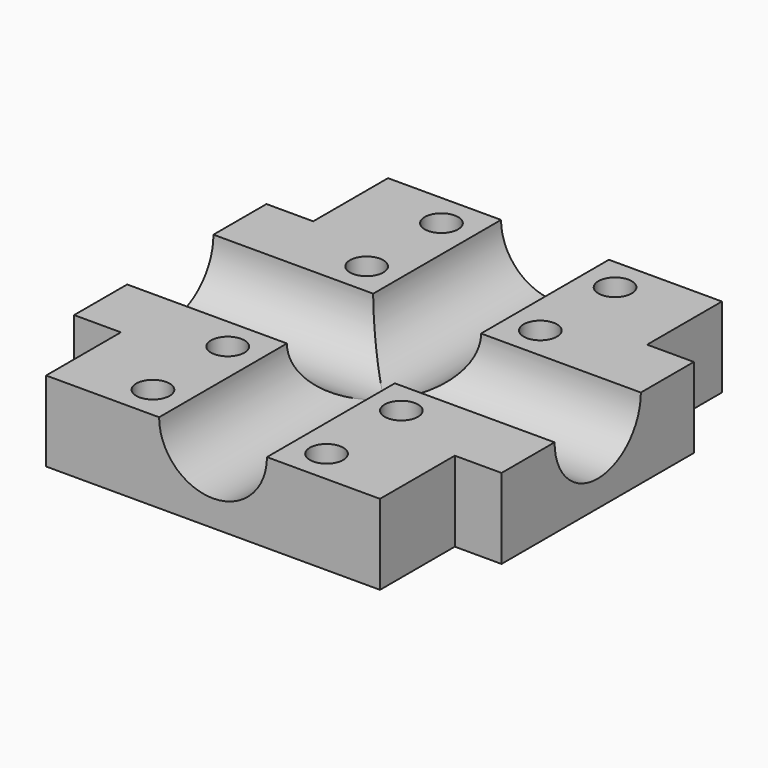
from build123d import *

# Parameters (mm, degrees)
F0_R     = 2.5
F1_DEPTH = 12
F0_W     = 7
F0_H     = 14
F2_DEPTH = 12.001
F3_R     = 8.075
F4_DEPTH = 64.001
F6_DEPTH = 64.001


with BuildPart() as f1:
    # F0 (on Top) → F1 (new body)
    with BuildSketch(Plane.XY):
        Polygon((-25, -32), (25, -32), (25, -18), (32, -18), (32, 18), (25, 18), (25, 32), (-25, 32), (-25, 18), (-32, 18), (-32, -18), (-25, -18), align=None)
        with Locations((-13, -27)):
            Circle(F0_R, mode=Mode.SUBTRACT)
        with Locations((-13, -13)):
            Circle(F0_R, mode=Mode.SUBTRACT)
        with Locations((13, -27)):
            Circle(F0_R, mode=Mode.SUBTRACT)
        with Locations((13, -13)):
            Circle(F0_R, mode=Mode.SUBTRACT)
        with Locations((-13, 13)):
            Circle(F0_R, mode=Mode.SUBTRACT)
        with Locations((-13, 27)):
            Circle(F0_R, mode=Mode.SUBTRACT)
        with Locations((13, 13)):
            Circle(F0_R, mode=Mode.SUBTRACT)
        with Locations((13, 27)):
            Circle(F0_R, mode=Mode.SUBTRACT)
        Polygon((-25, -32), (25, -32), (25, -18), (32, -18), (32, 18), (25, 18), (25, 32), (-25, 32), (-25, 18), (-32, 18), (-32, -18), (-25, -18), align=None)
        with Locations((-13, -27)):
            Circle(F0_R, mode=Mode.SUBTRACT)
        with Locations((-13, -13)):
            Circle(F0_R, mode=Mode.SUBTRACT)
        with Locations((13, -27)):
            Circle(F0_R, mode=Mode.SUBTRACT)
        with Locations((13, -13)):
            Circle(F0_R, mode=Mode.SUBTRACT)
        with Locations((-13, 13)):
            Circle(F0_R, mode=Mode.SUBTRACT)
        with Locations((-13, 27)):
            Circle(F0_R, mode=Mode.SUBTRACT)
        with Locations((13, 13)):
            Circle(F0_R, mode=Mode.SUBTRACT)
        with Locations((13, 27)):
            Circle(F0_R, mode=Mode.SUBTRACT)
    extrude(amount=F1_DEPTH)

    # F0 (on Top) → F2 (cut, through all)
    with BuildSketch(Plane.XY):
        with Locations((28.5, -25)):
            Rectangle(F0_W, F0_H)
        with Locations((-28.5, -25)):
            Rectangle(F0_W, F0_H)
    extrude(amount=F2_DEPTH, mode=Mode.SUBTRACT)

    # F3 (on face) → F4 (cut, through all)
    with BuildSketch(Plane.XZ.offset(32)):
        with Locations((0, 12)):
            Circle(F3_R)
    extrude(amount=-F4_DEPTH, mode=Mode.SUBTRACT)

    # F5 (on face) → F6 (cut, through all)
    with BuildSketch(Plane(origin=(-32, 0, 0), x_dir=(0, -1, 0), z_dir=(-1, 0, 0))):
        with BuildLine():
            ThreePointArc((-8.075, 12), (0, 3.925), (8.075, 12))
            Line((8.075, 12), (-8.075, 12))
        make_face()
    extrude(amount=-F6_DEPTH, mode=Mode.SUBTRACT)


solid = f1.part
